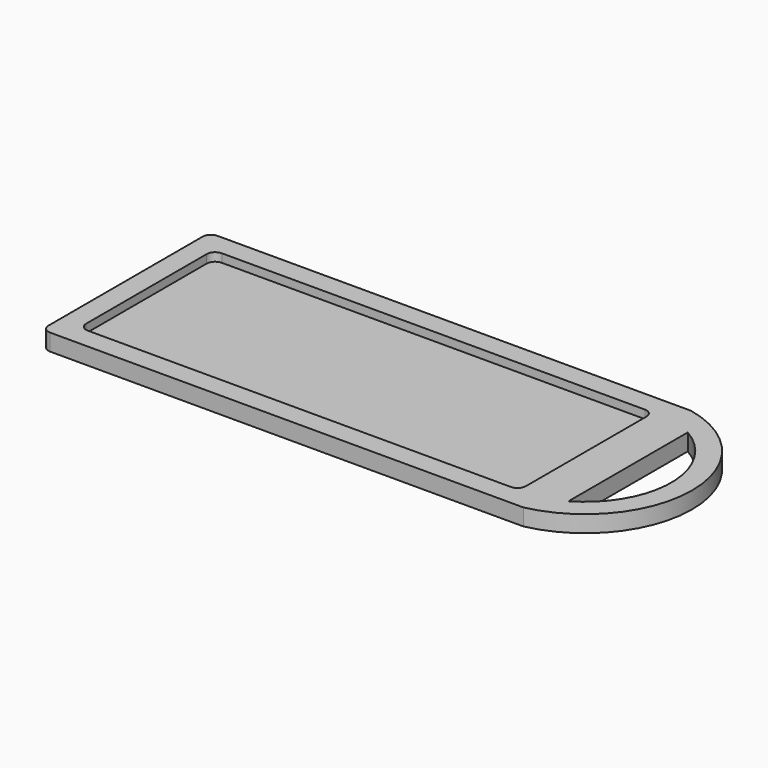
from build123d import *

# Parameters (mm, degrees)
F1_DEPTH = 2
F2_DEPTH = 4


with BuildPart() as f1:
    # F0 (on Top) → F1 (new body)
    with BuildSketch(Plane.XY):
        with BuildLine():
            Line((5, 43), (5, 7))
            ThreePointArc((5, 7), (5.585786, 5.585786), (7, 5))
            Line((7, 5), (108, 5))
            ThreePointArc((108, 5), (109.414214, 5.585786), (110, 7))
            Line((110, 7), (110, 43))
            ThreePointArc((110, 43), (109.414214, 44.414214), (108, 45))
            Line((108, 45), (7, 45))
            ThreePointArc((7, 45), (5.585786, 44.414214), (5, 43))
        make_face()
    extrude(amount=F1_DEPTH)

    # F0 (on Top) → F2 (join)
    with BuildSketch(Plane.XY):
        with BuildLine():
            ThreePointArc((0, 2), (0.585786, 0.585786), (2, 0))
            Line((2, 0), (115, 0))
            Line((115, 0), (115, 50))
            Line((115, 50), (2, 50))
            ThreePointArc((2, 50), (0.585786, 49.414214), (0, 48))
            Line((0, 48), (0, 2))
        make_face()
        with BuildLine():
            ThreePointArc((7, 5), (5.585786, 5.585786), (5, 7))
            Line((5, 7), (5, 43))
            ThreePointArc((5, 43), (5.585786, 44.414214), (7, 45))
            Line((7, 45), (108, 45))
            ThreePointArc((108, 45), (109.414214, 44.414214), (110, 43))
            Line((110, 43), (110, 7))
            ThreePointArc((110, 7), (109.414214, 5.585786), (108, 5))
            Line((108, 5), (7, 5))
        make_face(mode=Mode.SUBTRACT)
        with BuildLine():
            Line((115, 50), (115, 0))
            ThreePointArc((115, 0), (135.275224, 25), (115, 50))
        make_face()
        with BuildLine():
            ThreePointArc((120.000005, 42.797239), (130.27522, 25), (120.000005, 7.202761))
            Line((120.000005, 7.202761), (120.000005, 42.797239))
        make_face(mode=Mode.SUBTRACT)
    extrude(amount=F2_DEPTH)


solid = f1.part
